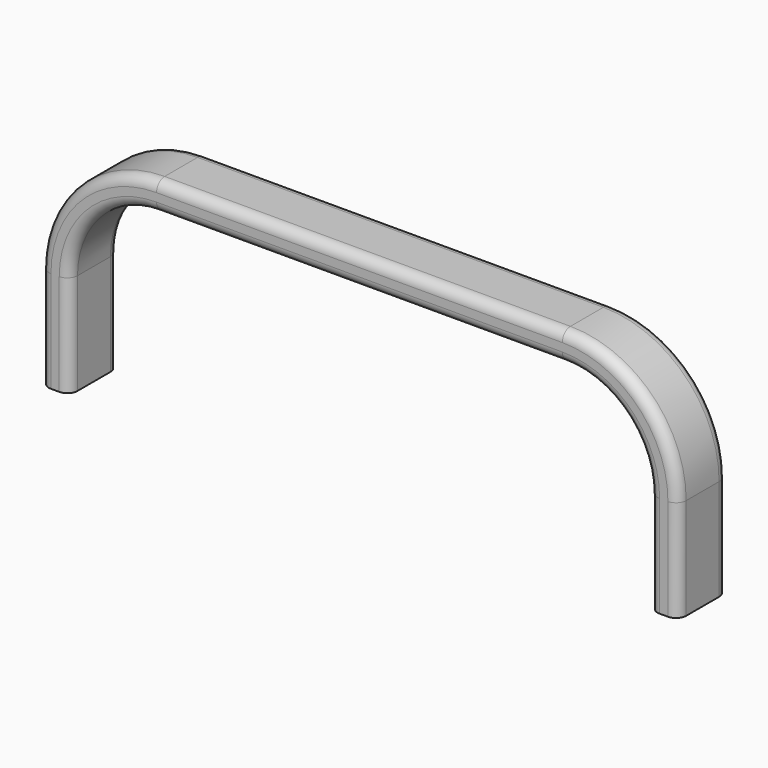
from build123d import *


with BuildPart() as f2:
    # F2: sweep along a path in F0
    with BuildLine(Plane.XZ) as f2_path:
        Line((-76.2, 0), (-76.2, 25.4))
        ThreePointArc((-76.2, 25.4), (-68.760512, 43.360512), (-50.8, 50.8))
        Line((-50.8, 50.8), (50.8, 50.8))
        ThreePointArc((50.8, 50.8), (68.760512, 43.360512), (76.2, 25.4))
        Line((76.2, 25.4), (76.2, 0))
    # F1 (on Top) → F2 (sweep)
    with BuildSketch(Plane.XY):
        with BuildLine():
            Line((-77.239705, -7.685832), (-75.160295, -7.685832))
            ThreePointArc((-75.160295, -7.685832), (-73.364244, -6.941883), (-72.620295, -5.145832))
            Line((-72.620295, -5.145832), (-72.620295, 5.145832))
            ThreePointArc((-72.620295, 5.145832), (-73.364244, 6.941883), (-75.160295, 7.685832))
            Line((-75.160295, 7.685832), (-77.239705, 7.685832))
            ThreePointArc((-77.239705, 7.685832), (-79.035756, 6.941883), (-79.779705, 5.145832))
            Line((-79.779705, 5.145832), (-79.779705, -5.145832))
            ThreePointArc((-79.779705, -5.145832), (-79.035756, -6.941883), (-77.239705, -7.685832))
        make_face()
    sweep(path=f2_path.line)


solid = f2.part
